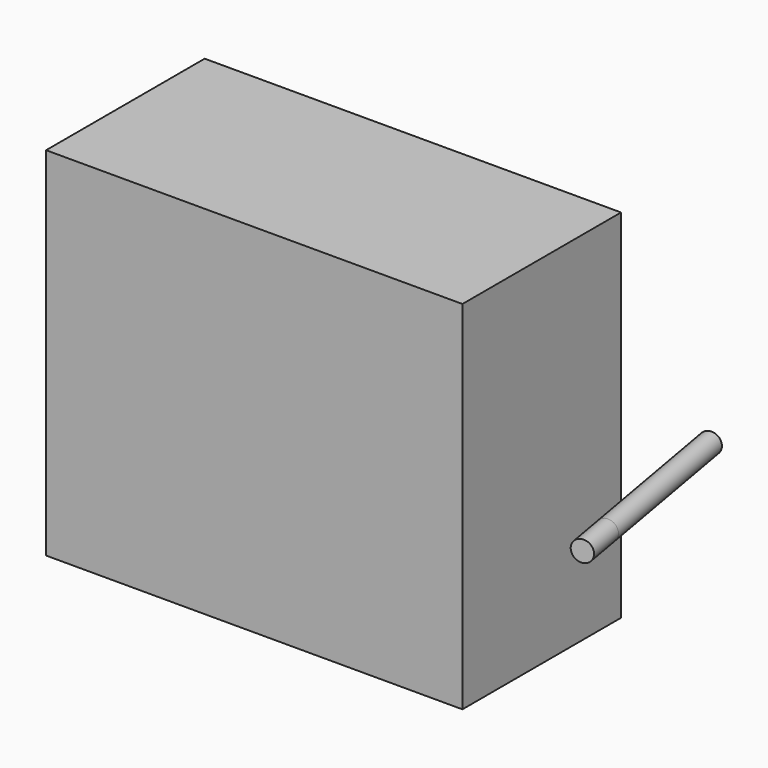
from build123d import *

# Parameters (mm, degrees)
F0_W     = 420
F0_H     = 360
F1_DEPTH = 200
F2_R     = 10.5
F3_DEPTH = 170
F5_ANGLE = 350
F6_DEPTH = 40


with BuildPart() as f1:
    # F0 (on Front) → F1 (new body)
    with BuildSketch(Plane.XZ):
        with Locations((95.353192389, 46.485158077)):
            Rectangle(F0_W, F0_H)
    extrude(amount=F1_DEPTH)


with BuildPart() as f3:
    # F2 (on face) → F3 (new body)
    with BuildSketch(Plane(origin=(0, 0, 0), x_dir=(-1, 0, 0), z_dir=(0, 1, 0))):
        with Locations((-352.6571393013, 6.1535742134)):
            Circle(F2_R)
    extrude(amount=F3_DEPTH)


with BuildPart() as f3_1:
    # F4: moved
    add(f3.part.moved(Location((0, -110, 0))))


with BuildPart() as f3_2:
    # F5: moved
    add(f3_1.part.rotate(Axis((305.353192389, 0, 46.485158077), (0, 0, -1)), F5_ANGLE))


with BuildPart() as f6:
    # F6 (new): a face of the model
    f6_faces = [f3_2.part.faces().sort_by_distance(p)[0] for p in [
        (371.0397855997, -100.1146086536, 6.1535742134),
    ]]
    extrude(f6_faces, amount=F6_DEPTH)


solid = Compound([f1.part, f3_2.part, f6.part])
